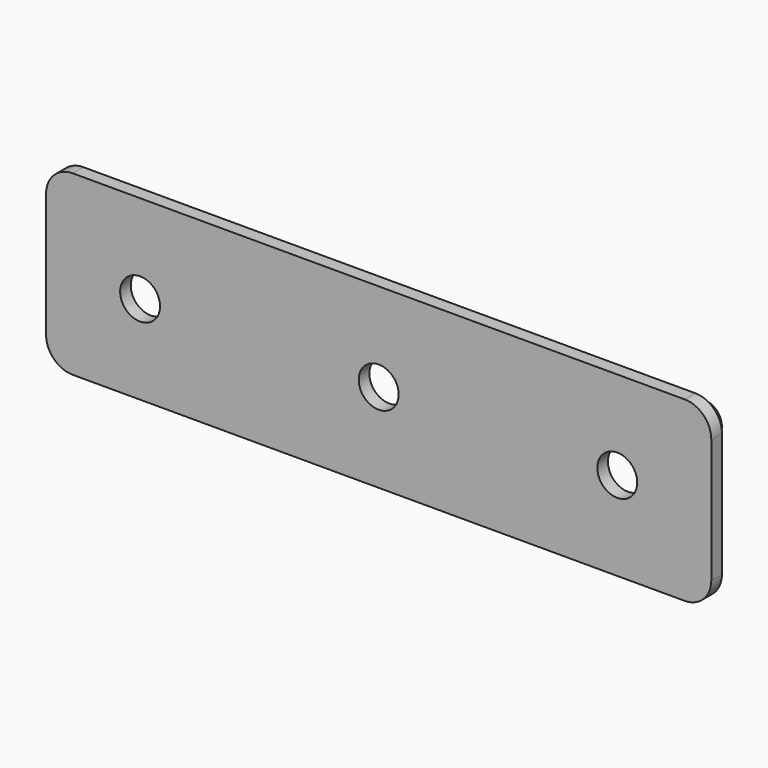
from build123d import *

# Parameters (mm, degrees)
PAD_DEPTH       = 3
SKETCH001_R     = 4
PAD001_DEPTH    = 5
SKETCH002_R     = 4.5
POCKET_DEPTH    = 8.001
SKETCH003_R     = 1
POCKET001_DEPTH = 5


with BuildPart() as part:
    # Sketch → Pad (new body)
    with BuildSketch(Plane.XZ):
        with BuildLine():
            ThreePointArc((6, 40), (1.757359, 38.242641), (0, 34))
            Line((0, 6), (0, 34))
            ThreePointArc((0, 6), (1.757359, 1.757359), (6, 0))
            Line((144, 0), (6, 0))
            ThreePointArc((144, 0), (148.242641, 1.757359), (150, 6))
            Line((150, 34), (150, 6))
            ThreePointArc((150, 34), (148.242641, 38.242641), (144, 40))
            Line((6, 40), (144, 40))
        make_face()
    extrude(amount=PAD_DEPTH)

    # Sketch001 (on Face9 of Pad) → Pad001 (join)
    with BuildSketch(Plane(origin=(0, 0, 0), x_dir=(1, 0, 0), z_dir=(0, 1, 0))):
        with Locations((8, -8)):
            Circle(SKETCH001_R)
        with Locations((8, -32)):
            Circle(SKETCH001_R)
        with Locations((142, -8)):
            Circle(SKETCH001_R)
        with Locations((142, -32)):
            Circle(SKETCH001_R)
        with Locations((75, -8)):
            Circle(SKETCH001_R)
        with Locations((75, -32)):
            Circle(SKETCH001_R)
    extrude(amount=PAD001_DEPTH)

    # Sketch002 (on Face5 of Pad001) → Pocket (cut, through all)
    with BuildSketch(Plane.XZ.offset(3)):
        with Locations((21.2, 20)):
            Circle(SKETCH002_R)
        with Locations((75, 20)):
            Circle(SKETCH002_R)
        with Locations((128.8, 20)):
            Circle(SKETCH002_R)
    extrude(amount=-POCKET_DEPTH, mode=Mode.SUBTRACT)

    # Sketch003 (on Face25 of Pocket) → Pocket001 (cut)
    with BuildSketch(Plane(origin=(0, 5, 0), x_dir=(1, 0, 0), z_dir=(0, 1, 0))):
        with Locations((8, -8)):
            Circle(SKETCH003_R)
        with Locations((8, -32)):
            Circle(SKETCH003_R)
        with Locations((75, -32)):
            Circle(SKETCH003_R)
        with Locations((142, -32)):
            Circle(SKETCH003_R)
        with Locations((75, -8)):
            Circle(SKETCH003_R)
        with Locations((142, -8)):
            Circle(SKETCH003_R)
    extrude(amount=-POCKET001_DEPTH, mode=Mode.SUBTRACT)


solid = part.part
